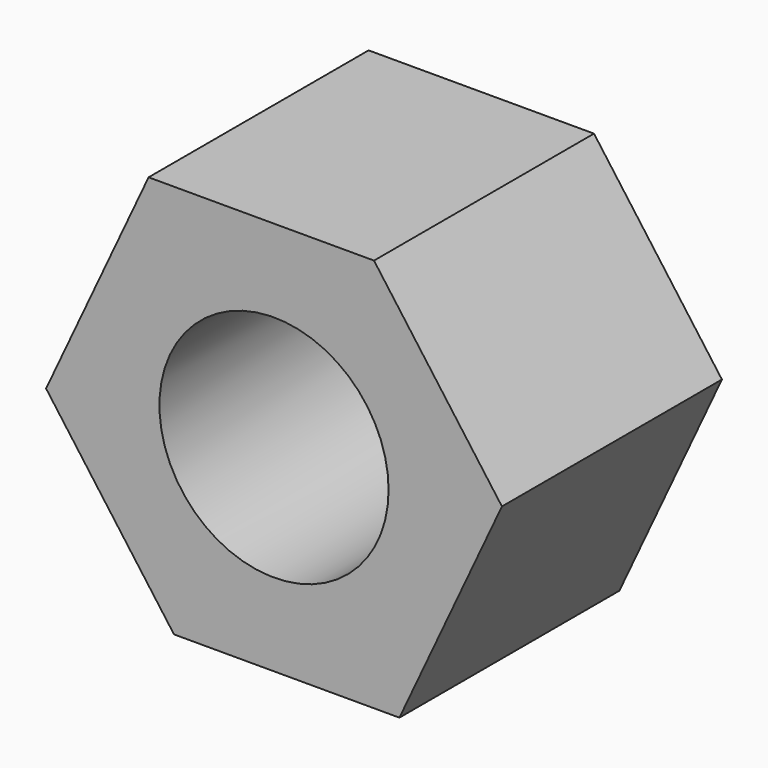
from build123d import *

# Parameters (mm, degrees)
F1_DEPTH = 3
F2_R     = 1.25
F3_DEPTH = 25


with BuildPart() as f1:
    # F0 (on Front) → F1 (new body)
    with BuildSketch(Plane.XZ):
        Polygon((2.132456, 29.882024), (-0.326764, 29.882024), (-1.445175, 27.489626), (-0.049504, 25.582024), (2.409716, 25.582024), (3.528127, 27.974421), align=None)
    extrude(amount=F1_DEPTH)

    # F2 (on face) → F3 (cut)
    with BuildSketch(Plane.XZ.offset(3)):
        with Locations((1.041476, 27.732024)):
            Circle(F2_R)
    extrude(amount=-F3_DEPTH, mode=Mode.SUBTRACT)


solid = f1.part
